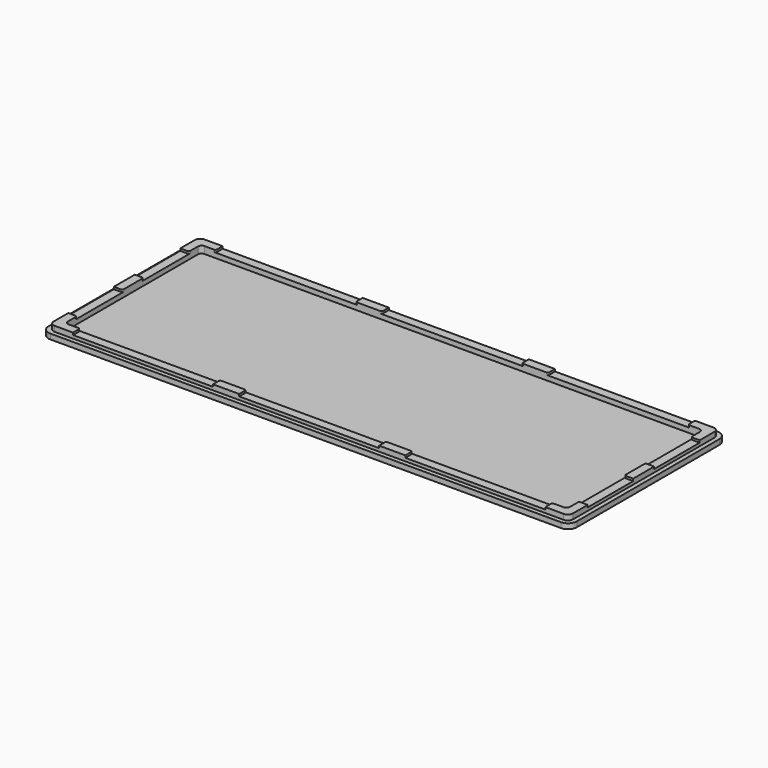
from build123d import *

# Parameters (mm, degrees)
SKETCH_W        = 302
SKETCH_H        = 112
PAD_DEPTH       = 6
SKETCH001_W     = 287
SKETCH001_H     = 97
POCKET_DEPTH    = 4
SKETCH002_W     = 302
SKETCH002_H     = 112
SKETCH002_W_2   = 296.96
SKETCH002_H_2   = 106.96
POCKET001_DEPTH = 3.02
FILLET_R        = 3
FILLET001_R     = 5
FILLET002_R     = 5
FILLET003_R     = 3
FILLET004_R     = 2
FILLET005_R     = 2
FILLET006_R     = 5
FILLET007_R     = 3
FILLET008_R     = 2
FILLET009_R     = 5
FILLET010_R     = 3
FILLET011_R     = 2
SKETCH003_W     = 80
SKETCH003_H     = 5
POCKET002_DEPTH = 1.25
SKETCH004_W     = 5
SKETCH004_H     = 32.5
POCKET003_DEPTH = 1.25
FILLET012_R     = 1
FILLET013_R     = 1
FILLET014_R     = 1
FILLET015_R     = 1
FILLET016_R     = 1
FILLET017_R     = 1
FILLET018_R     = 1
FILLET019_R     = 1
FILLET020_R     = 1
FILLET021_R     = 1
FILLET022_R     = 1
FILLET023_R     = 1
FILLET024_R     = 1
FILLET025_R     = 1
FILLET026_R     = 1
FILLET027_R     = 1
FILLET028_R     = 1
FILLET029_R     = 1
FILLET030_R     = 1
FILLET031_R     = 1


with BuildPart() as part:
    # Sketch → Pad (new body)
    with BuildSketch(Plane.XY):
        Rectangle(SKETCH_W, SKETCH_H)
    extrude(amount=PAD_DEPTH)

    # Sketch001 (on Face6 of Pad) → Pocket (cut)
    with BuildSketch(Plane.XY.offset(6)):
        Rectangle(SKETCH001_W, SKETCH001_H)
    extrude(amount=-POCKET_DEPTH, mode=Mode.SUBTRACT)

    # Sketch002 (on Face5 of Pocket) → Pocket001 (cut)
    with BuildSketch(Plane.XY.offset(6)):
        Rectangle(SKETCH002_W, SKETCH002_H)
        Rectangle(SKETCH002_W_2, SKETCH002_H_2, mode=Mode.SUBTRACT)
    extrude(amount=-POCKET001_DEPTH, mode=Mode.SUBTRACT)

    # Fillet
    fillet_edges = [part.edges().sort_by_distance(p)[0] for p in [
        (-148.48, -53.48, 4.49),
    ]]
    fillet(fillet_edges, radius=FILLET_R)

    # Fillet001
    fillet001_edges = [part.edges().sort_by_distance(p)[0] for p in [
        (-151, -56, 1.49),
    ]]
    fillet(fillet001_edges, radius=FILLET001_R)

    # Fillet002
    fillet002_edges = [part.edges().sort_by_distance(p)[0] for p in [
        (-151, 56, 1.49),
    ]]
    fillet(fillet002_edges, radius=FILLET002_R)

    # Fillet003
    fillet003_edges = [part.edges().sort_by_distance(p)[0] for p in [
        (-148.48, 53.48, 4.49),
    ]]
    fillet(fillet003_edges, radius=FILLET003_R)

    # Fillet004
    fillet004_edges = [part.edges().sort_by_distance(p)[0] for p in [
        (-143.5, 48.5, 4),
    ]]
    fillet(fillet004_edges, radius=FILLET004_R)

    # Fillet005
    fillet005_edges = [part.edges().sort_by_distance(p)[0] for p in [
        (-143.5, -48.5, 4),
    ]]
    fillet(fillet005_edges, radius=FILLET005_R)

    # Fillet006
    fillet006_edges = [part.edges().sort_by_distance(p)[0] for p in [
        (151, -56, 1.49),
    ]]
    fillet(fillet006_edges, radius=FILLET006_R)

    # Fillet007
    fillet007_edges = [part.edges().sort_by_distance(p)[0] for p in [
        (148.48, -53.48, 4.49),
    ]]
    fillet(fillet007_edges, radius=FILLET007_R)

    # Fillet008
    fillet008_edges = [part.edges().sort_by_distance(p)[0] for p in [
        (143.5, -48.5, 4),
    ]]
    fillet(fillet008_edges, radius=FILLET008_R)

    # Fillet009
    fillet009_edges = [part.edges().sort_by_distance(p)[0] for p in [
        (151, 56, 1.49),
    ]]
    fillet(fillet009_edges, radius=FILLET009_R)

    # Fillet010
    fillet010_edges = [part.edges().sort_by_distance(p)[0] for p in [
        (148.48, 53.48, 4.49),
    ]]
    fillet(fillet010_edges, radius=FILLET010_R)

    # Fillet011
    fillet011_edges = [part.edges().sort_by_distance(p)[0] for p in [
        (143.5, 48.5, 4),
    ]]
    fillet(fillet011_edges, radius=FILLET011_R)

    # Sketch003 (on Face1 of Fillet011) → Pocket002 (cut)
    with BuildSketch(Plane.XY.offset(6)):
        with Locations((0, 51)):
            Rectangle(SKETCH003_W, SKETCH003_H)
        with Locations((-95, 51)):
            Rectangle(SKETCH003_W, SKETCH003_H)
        with Locations((95, 51)):
            Rectangle(SKETCH003_W, SKETCH003_H)
        with Locations((95, -51)):
            Rectangle(SKETCH003_W, SKETCH003_H)
        with Locations((0, -51)):
            Rectangle(SKETCH003_W, SKETCH003_H)
        with Locations((-95, -51)):
            Rectangle(SKETCH003_W, SKETCH003_H)
    extrude(amount=-POCKET002_DEPTH, mode=Mode.SUBTRACT)

    # Sketch004 (on Face25 of Pocket002) → Pocket003 (cut)
    with BuildSketch(Plane.XY.offset(6)):
        with Locations((-146, 23.75)):
            Rectangle(SKETCH004_W, SKETCH004_H)
        with Locations((-146, -23.75)):
            Rectangle(SKETCH004_W, SKETCH004_H)
        with Locations((146, 23.75)):
            Rectangle(SKETCH004_W, SKETCH004_H)
        with Locations((146, -23.75)):
            Rectangle(SKETCH004_W, SKETCH004_H)
    extrude(amount=-POCKET003_DEPTH, mode=Mode.SUBTRACT)

    # Fillet012
    fillet012_edges = [part.edges().sort_by_distance(p)[0] for p in [
        (-55, 48.5, 5.375),
    ]]
    fillet(fillet012_edges, radius=FILLET012_R)

    # Fillet013
    fillet013_edges = [part.edges().sort_by_distance(p)[0] for p in [
        (-40, 48.5, 5.375),
    ]]
    fillet(fillet013_edges, radius=FILLET013_R)

    # Fillet014
    fillet014_edges = [part.edges().sort_by_distance(p)[0] for p in [
        (-135, 48.5, 5.375),
    ]]
    fillet(fillet014_edges, radius=FILLET014_R)

    # Fillet015
    fillet015_edges = [part.edges().sort_by_distance(p)[0] for p in [
        (-143.5, 40, 5.375),
    ]]
    fillet(fillet015_edges, radius=FILLET015_R)

    # Fillet016
    fillet016_edges = [part.edges().sort_by_distance(p)[0] for p in [
        (-143.5, 7.5, 5.375),
    ]]
    fillet(fillet016_edges, radius=FILLET016_R)

    # Fillet017
    fillet017_edges = [part.edges().sort_by_distance(p)[0] for p in [
        (-143.5, -7.5, 5.375),
    ]]
    fillet(fillet017_edges, radius=FILLET017_R)

    # Fillet018
    fillet018_edges = [part.edges().sort_by_distance(p)[0] for p in [
        (-143.5, -40, 5.375),
    ]]
    fillet(fillet018_edges, radius=FILLET018_R)

    # Fillet019
    fillet019_edges = [part.edges().sort_by_distance(p)[0] for p in [
        (-135, -48.5, 5.375),
    ]]
    fillet(fillet019_edges, radius=FILLET019_R)

    # Fillet020
    fillet020_edges = [part.edges().sort_by_distance(p)[0] for p in [
        (-40, -48.5, 5.375),
    ]]
    fillet(fillet020_edges, radius=FILLET020_R)

    # Fillet021
    fillet021_edges = [part.edges().sort_by_distance(p)[0] for p in [
        (-55, -48.5, 5.375),
    ]]
    fillet(fillet021_edges, radius=FILLET021_R)

    # Fillet022
    fillet022_edges = [part.edges().sort_by_distance(p)[0] for p in [
        (40, -48.5, 5.375),
    ]]
    fillet(fillet022_edges, radius=FILLET022_R)

    # Fillet023
    fillet023_edges = [part.edges().sort_by_distance(p)[0] for p in [
        (55, -48.5, 5.375),
    ]]
    fillet(fillet023_edges, radius=FILLET023_R)

    # Fillet024
    fillet024_edges = [part.edges().sort_by_distance(p)[0] for p in [
        (135, -48.5, 5.375),
    ]]
    fillet(fillet024_edges, radius=FILLET024_R)

    # Fillet025
    fillet025_edges = [part.edges().sort_by_distance(p)[0] for p in [
        (143.5, -40, 5.375),
    ]]
    fillet(fillet025_edges, radius=FILLET025_R)

    # Fillet026
    fillet026_edges = [part.edges().sort_by_distance(p)[0] for p in [
        (143.5, 7.5, 5.375),
    ]]
    fillet(fillet026_edges, radius=FILLET026_R)

    # Fillet027
    fillet027_edges = [part.edges().sort_by_distance(p)[0] for p in [
        (143.5, -7.5, 5.375),
    ]]
    fillet(fillet027_edges, radius=FILLET027_R)

    # Fillet028
    fillet028_edges = [part.edges().sort_by_distance(p)[0] for p in [
        (135, 48.5, 5.375),
    ]]
    fillet(fillet028_edges, radius=FILLET028_R)

    # Fillet029
    fillet029_edges = [part.edges().sort_by_distance(p)[0] for p in [
        (143.5, 40, 5.375),
    ]]
    fillet(fillet029_edges, radius=FILLET029_R)

    # Fillet030
    fillet030_edges = [part.edges().sort_by_distance(p)[0] for p in [
        (55, 48.5, 5.375),
    ]]
    fillet(fillet030_edges, radius=FILLET030_R)

    # Fillet031
    fillet031_edges = [part.edges().sort_by_distance(p)[0] for p in [
        (40, 48.5, 5.375),
    ]]
    fillet(fillet031_edges, radius=FILLET031_R)


solid = part.part
